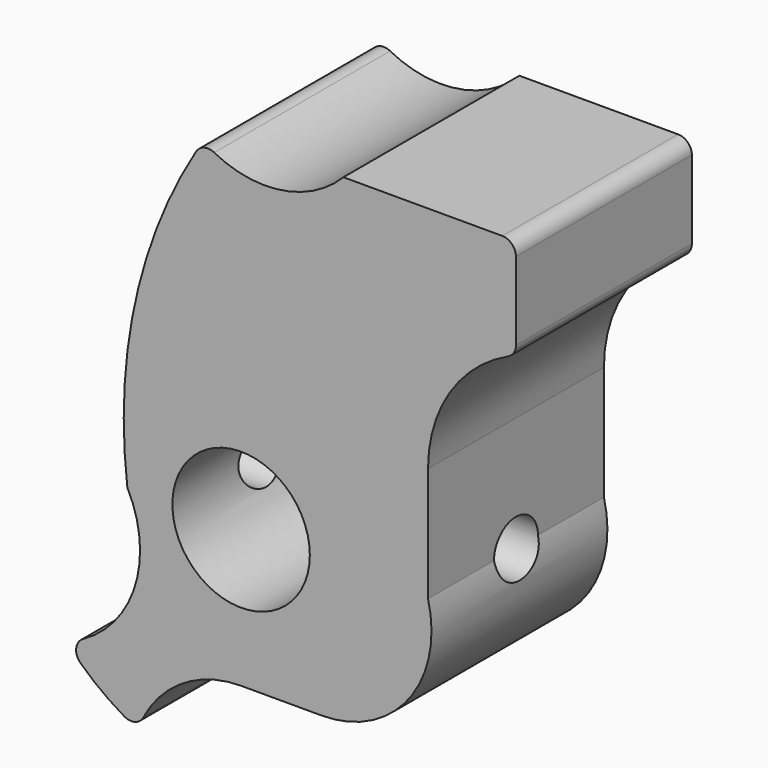
from build123d import *

# Parameters (mm, degrees)
F0_R     = 2.5
F1_DEPTH = 8
F2_R     = 0.5
F4_R     = 1
F5_DEPTH = 16.0046179008


with BuildPart() as f1:
    # F0 (on Front) → F1 (new body)
    with BuildSketch(Plane.XZ):
        with BuildLine():
            ThreePointArc((-3.7562448003, -7.625), (-2.2912878475, -5.7212807378), (0, -5))
            Line((0, -5), (2.9270166538, -5))
            ThreePointArc((2.9270166538, -5), (6.089294314, -3.4494897428), (6.8, 0))
            Line((6.8, 0), (6.8, 4.1654431261))
            ThreePointArc((6.8, 4.1654431261), (7.6768943744, 6.9938702509), (10, 8.830204642))
            Line((10, 8.830204642), (10, 12.5))
            Line((10, 12.5), (3.7225915585, 12.5))
            ThreePointArc((3.7225915585, 12.5), (1.2642823664, 11.3254788413), (-1.3759608742, 11.9977136707))
            ThreePointArc((-1.3759608742, 11.9977136707), (-3.8097222151, 6.2411904989), (-4.1388034343, 0))
            ThreePointArc((-4.1388034343, 0), (-3.9545717948, -3.3296918319), (-6.3576388045, -5.6418462255))
            ThreePointArc((-6.3576388045, -5.6418462255), (-5.1532402541, -6.7597422202), (-3.7562448003, -7.625))
        make_face()
        Circle(F0_R, mode=Mode.SUBTRACT)
    extrude(amount=F1_DEPTH)

    # F2
    f2_edges = [f1.edges().sort_by_distance(p)[0] for p in [
        (10, -4, 12.5),
        (-1.375961, -4, 11.997714),
        (-6.357639, -4, -5.641846),
        (-3.756245, -4, -7.625),
        (10, -4, 8.830205),
    ]]
    fillet(f2_edges, radius=F2_R)

    # F4 (on face) → F5 (cut, through all)
    with BuildSketch(Plane.YZ.offset(10)):
        with Locations((-4, 0)):
            Circle(F4_R)
    extrude(amount=-F5_DEPTH, mode=Mode.SUBTRACT)


solid = f1.part
